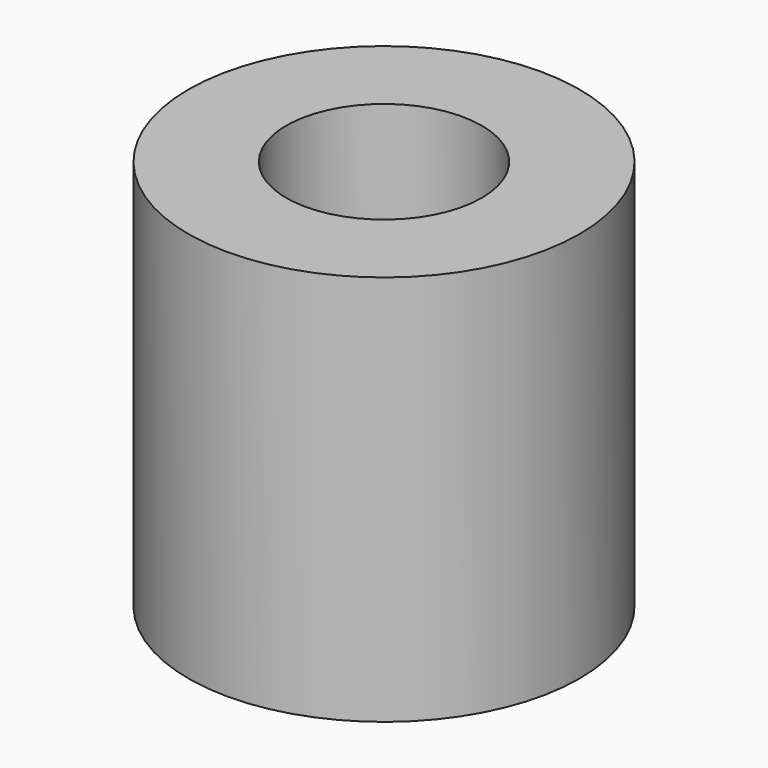
from build123d import *

# Parameters (mm, degrees)
F0_R     = 12.192
F1_DEPTH = 24.13
F3_R     = 2.54
F4_DEPTH = 5.08
F5_R     = 1.27
F6_DEPTH = 12.7


with BuildPart() as f1:
    # F0 (on Top) → F1 (new body)
    with BuildSketch(Plane.XY):
        with Locations((-42.4534301028, 33.8528162107)):
            Circle(F0_R)
    extrude(amount=F1_DEPTH)


with BuildPart() as f4:
    # F3 (on Top) → F4 (new body)
    with BuildSketch(Plane.XY):
        with Locations((-29.813402482, 4.1510883982)):
            Circle(F3_R)
    extrude(amount=F4_DEPTH)

    # F5 (on Top) → F6 (cut, symmetric)
    with BuildSketch(Plane.XY):
        with Locations((-29.813402482, 4.1510883982)):
            Circle(F5_R)
    extrude(amount=F6_DEPTH, both=True, mode=Mode.SUBTRACT)


solid = f4.part
